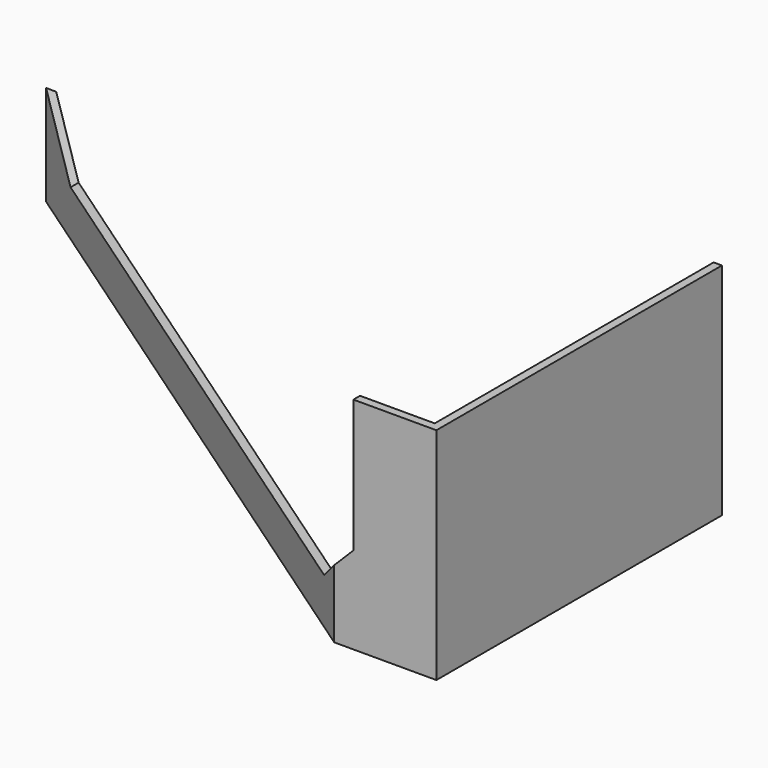
from build123d import *

# Parameters (mm, degrees)
EXTRUDE018_DEPTH = 60
EXTRUDE016_DEPTH = 26.5


with BuildPart() as body013:
    # Sketch022 → Extrude018 (new body)
    with BuildSketch(Plane.XZ.offset(46)):
        Polygon((-21, 7.5), (-102, 7.5), (-102, -12), (-94, -20), (-26, -20), (-21, -15), align=None)
    extrude(amount=-EXTRUDE018_DEPTH)


with BuildPart() as cut008:
    # Sketch020 → Extrude016 (new body)
    with BuildSketch(Plane.XY.offset(-25.5)):
        Polygon((-11, 0), (-11, -43), (-23.310892, -43), (-100.566983, 10.17627), (-100, 11), (-23, -42), (-12, -42), (-12, 0), align=None)
    extrude(amount=EXTRUDE016_DEPTH)

    # Cut008: cut Body013
    add(body013.part, mode=Mode.SUBTRACT)


solid = cut008.part
